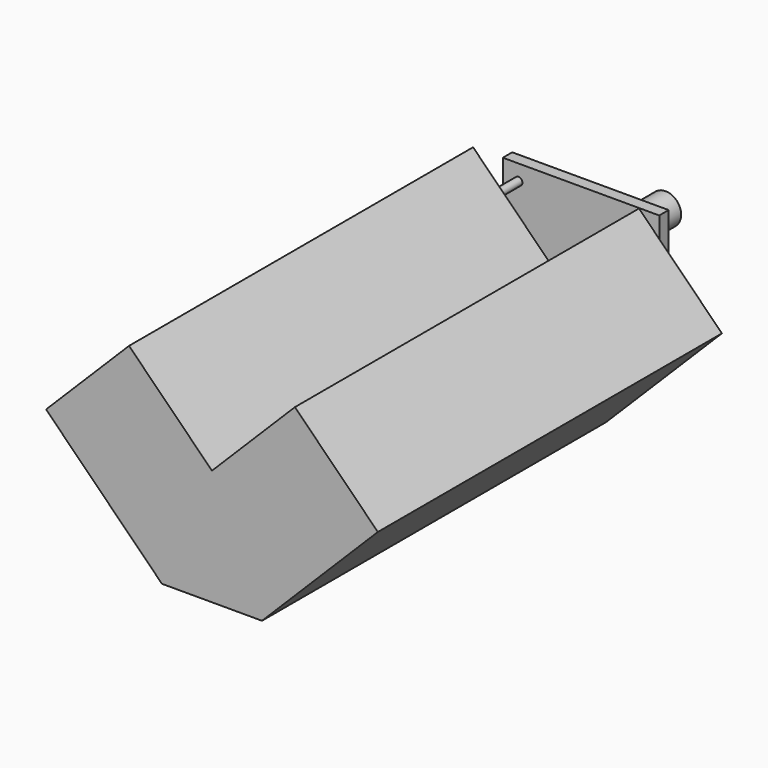
from build123d import *

# Parameters (mm, degrees)
F0_R     = 20
F0_R_2   = 14
F1_DEPTH = 60
F3_W     = 200
F3_H     = 160
F4_DEPTH = 15
F5_R     = 5
F6_DEPTH = 40
F8_DEPTH = 550


with BuildPart() as f1:
    # F0 (on Front) → F1 (new body, symmetric)
    with BuildSketch(Plane.XZ):
        Circle(F0_R)
        Circle(F0_R_2, mode=Mode.SUBTRACT)
    extrude(amount=F1_DEPTH, both=True)

    # F3 (on offset) → F4 (join)
    with BuildSketch(Plane.XZ.offset(60)):
        Rectangle(F3_W, F3_H)
    extrude(amount=F4_DEPTH)

    # F5 (on face) → F6 (join)
    with BuildSketch(Plane.XZ.offset(75)):
        with Locations((-80, 60)):
            Circle(F5_R)
        with Locations((-80, -65)):
            Circle(F5_R)
        with Locations((80, -65)):
            Circle(F5_R)
        with Locations((80, 60)):
            Circle(F5_R)
    extrude(amount=F6_DEPTH)

    # F7 (on face) → F8 (join)
    with BuildSketch(Plane.XZ.offset(115)):
        Polygon((0, 0), (-106.066017, 106.066017), (-212.132034, 0), (-63.983719, -148.148316), (63.983719, -148.148316), (212.132034, 0), (106.066017, 106.066017), align=None)
    extrude(amount=F8_DEPTH)


solid = f1.part
